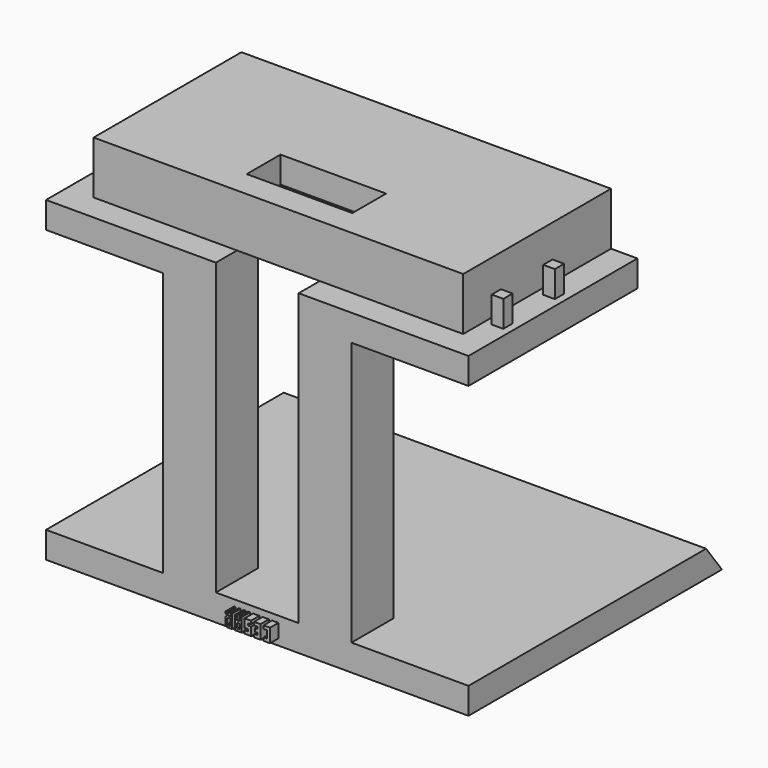
from build123d import *

# Parameters (mm, degrees)
F0_W      = 101.6
F0_H      = 50.8
F1_DEPTH  = 19.05
F2_W      = 88.9
F2_H      = 6.35
F3_DEPTH  = 12.7
F4_W      = 76.2
F4_H      = 38.1
F5_DEPTH  = 12.7
F6_W      = 25.4
F6_H      = 10.16
F7_DEPTH  = 25.4
F8_W      = 19.9136
F8_H      = 12.7
F9_DEPTH  = 6.35
F10_W     = 12.7
F10_H     = 12.7
F11_DEPTH = 63.5
F12_W     = 12.7
F12_H     = 12.7
F13_DEPTH = 6.35
F15_DEPTH = 101.6
F16_W     = 2.794
F16_H     = 2.794
F17_DEPTH = 6.35
F18_W     = 0.508
F18_H     = 1.235321
F19_DEPTH = 2.54


with BuildPart() as f1:
    # F0 (on Top) → F1 (new body)
    with BuildSketch(Plane.XY):
        with Locations((7.125289, -7.990768)):
            Rectangle(F0_W, F0_H)
    extrude(amount=F1_DEPTH)

    # F2 (on face) → F3 (cut)
    with BuildSketch(Plane.XY.offset(19.05)):
        Polygon((-37.324711, -27.040768), (-37.324711, 17.409232), (-43.674711, 17.409232), (-43.674711, -33.390768), (-37.324711, -33.390768), align=None)
        with Locations((7.125289, -30.215768)):
            Rectangle(F2_W, F2_H)
        Polygon((57.925289, 17.409232), (51.575289, 17.409232), (51.575289, -27.040768), (51.575289, -33.390768), (57.925289, -33.390768), align=None)
    extrude(amount=-F3_DEPTH, mode=Mode.SUBTRACT)

    # F4 (on face) → F5 (cut)
    with BuildSketch(Plane(origin=(0, 0, 0), x_dir=(1, 0, 0), z_dir=(0, 0, -1))):
        with Locations((7.125289, 1.640768)):
            Rectangle(F4_W, F4_H)
    extrude(amount=-F5_DEPTH, mode=Mode.SUBTRACT)

    # F6 (on face) → F7 (cut)
    with BuildSketch(Plane(origin=(0, 0, 12.7), x_dir=(1, 0, 0), z_dir=(0, 0, -1))):
        with Locations((7.125289, 15.610768)):
            Rectangle(F6_W, F6_H)
    extrude(amount=-F7_DEPTH, mode=Mode.SUBTRACT)

    # F8 (on face) → F9 (cut)
    with BuildSketch(Plane(origin=(0, 0, 0), x_dir=(1, 0, 0), z_dir=(0, 0, -1))):
        with Locations((7.125289, 27.040768)):
            Rectangle(F8_W, F8_H)
    extrude(amount=-F9_DEPTH, mode=Mode.SUBTRACT)

    # F10 (on face) → F11 (join)
    with BuildSketch(Plane(origin=(0, 0, 0), x_dir=(1, 0, 0), z_dir=(0, 0, -1))):
        with Locations((23.432089, 27.040768)):
            Rectangle(F10_W, F10_H)
        with Locations((-9.181511, 27.040768)):
            Rectangle(F10_W, F10_H)
    extrude(amount=F11_DEPTH)

    # F12 (on face) → F13 (join)
    with BuildSketch(Plane(origin=(0, 0, -63.5), x_dir=(1, 0, 0), z_dir=(0, 0, -1))):
        Polygon((-43.674711, 33.390768), (-43.674711, -42.809232), (57.925289, -42.809232), (57.925289, 33.390768), (-2.831511, 33.390768), (-2.831511, 20.690768), (-15.531511, 20.690768), (-15.531511, 33.390768), align=None)
        with Locations((-9.181511, 27.040768)):
            Rectangle(F12_W, F12_H)
    extrude(amount=F13_DEPTH)

    # F14 (on face) → F15 (cut)
    with BuildSketch(Plane.YZ.offset(57.925289)):
        Polygon((38.046732, -63.5), (42.809232, -69.85), (42.809232, -63.5), align=None)
    extrude(amount=-F15_DEPTH, mode=Mode.SUBTRACT)

    # F16 (on face) → F17 (join)
    with BuildSketch(Plane.XY.offset(6.35)):
        with Locations((-40.499711, -3.799768)):
            Rectangle(F16_W, F16_H)
        with Locations((-40.499711, -19.293768)):
            Rectangle(F16_W, F16_H)
        with Locations((54.750289, -3.799768)):
            Rectangle(F16_W, F16_H)
        with Locations((54.750289, -19.293768)):
            Rectangle(F16_W, F16_H)
    extrude(amount=F17_DEPTH)

    # F18 (on face) → F19 (join)
    with BuildSketch(Plane.XZ.offset(33.390768)):
        Polygon((10.681289, -67.564), (10.681289, -68.326), (12.205289, -68.326), (12.205289, -65.024), (10.681289, -65.024), (10.681289, -65.786), (11.443289, -65.786), (11.443289, -67.564), align=None)
        Polygon((8.395289, -68.326), (9.919289, -68.326), (9.919289, -65.024), (8.395289, -65.024), (8.395289, -65.786), (9.157289, -65.786), (9.157289, -66.294), (8.649289, -66.294), (8.649289, -67.056), (9.157289, -67.056), (9.157289, -67.564), (8.395289, -67.564), align=None)
        Polygon((6.109289, -67.529321), (6.109289, -68.291321), (7.633289, -68.291321), (7.633289, -66.294), (6.871289, -66.294), (6.871289, -65.786), (7.633289, -65.786), (7.633289, -65.024), (6.109289, -65.024), (6.109289, -67.021321), (6.871289, -67.021321), (6.871289, -67.529321), align=None)
        Polygon((3.823289, -68.291321), (5.347289, -68.291321), (5.347289, -65.024), (4.839289, -65.024), (4.839289, -66.04), (4.331289, -66.04), (4.331289, -65.024), (3.823289, -65.024), align=None)
        with Locations((4.585289, -67.165661)):
            Rectangle(F18_W, F18_H, mode=Mode.SUBTRACT)
        Polygon((2.299289, -68.291321), (3.061289, -68.291321), (3.061289, -65.024), (2.680289, -65.024), (2.680289, -65.786), (2.299289, -65.786), (1.918289, -65.42404), (1.918289, -65.024), (1.537289, -65.024), (1.537289, -65.42404), (1.918289, -65.786), (1.537289, -66.187042), (1.537289, -67.823172), (1.918289, -68.291321), align=None)
        Polygon((2.108789, -66.187042), (2.680289, -66.187042), (2.680289, -67.823172), (2.108789, -67.823172), (1.918289, -67.642192), (1.918289, -66.387562), align=None, mode=Mode.SUBTRACT)
    extrude(amount=F19_DEPTH)


solid = f1.part
